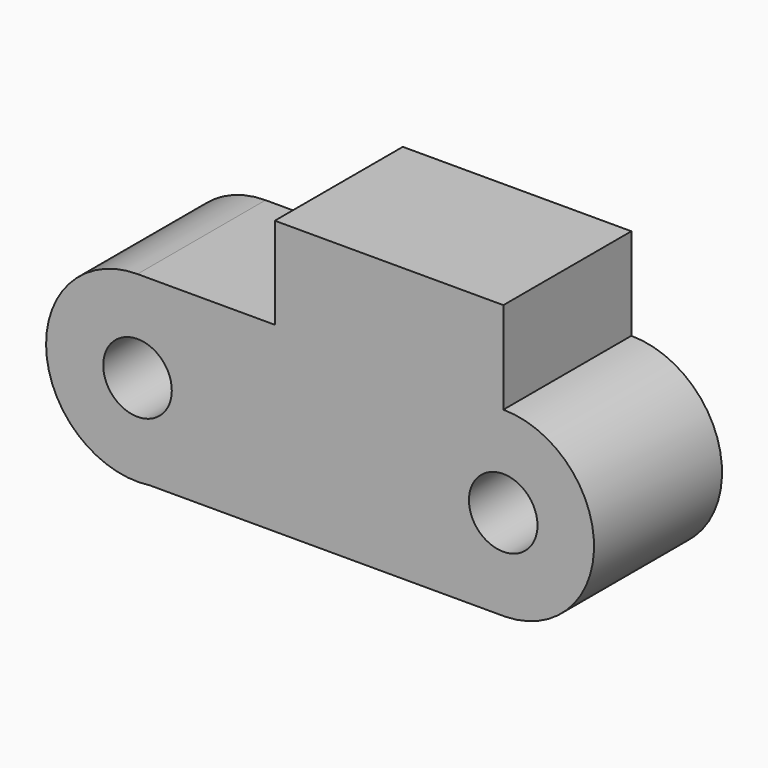
from build123d import *

# Parameters (mm, degrees)
F0_R     = 3
F1_DEPTH = 14


with BuildPart() as f1:
    # F0 (on Front) → F1 (new body)
    with BuildSketch(Plane.XZ):
        with BuildLine():
            ThreePointArc((-16.492189, 19.927121), (-24.474129, 11.389875), (-15.420123, 3.999279))
            Line((-15.420123, 3.999279), (15.717345, 3.999279))
            ThreePointArc((15.717345, 3.999279), (23.454399, 12.041669), (15.521441, 19.890888))
            Line((15.521441, 19.890888), (15.521441, 27.943708))
            Line((15.521441, 27.943708), (-4.478559, 27.943708))
            Line((-4.478559, 27.943708), (-4.478559, 19.927121))
            Line((-4.478559, 19.927121), (-16.492189, 19.927121))
        make_face()
        with Locations((-16.492189, 11.927121)):
            Circle(F0_R, mode=Mode.SUBTRACT)
        with Locations((15.507811, 11.943708)):
            Circle(F0_R, mode=Mode.SUBTRACT)
    extrude(amount=-F1_DEPTH)


solid = f1.part
